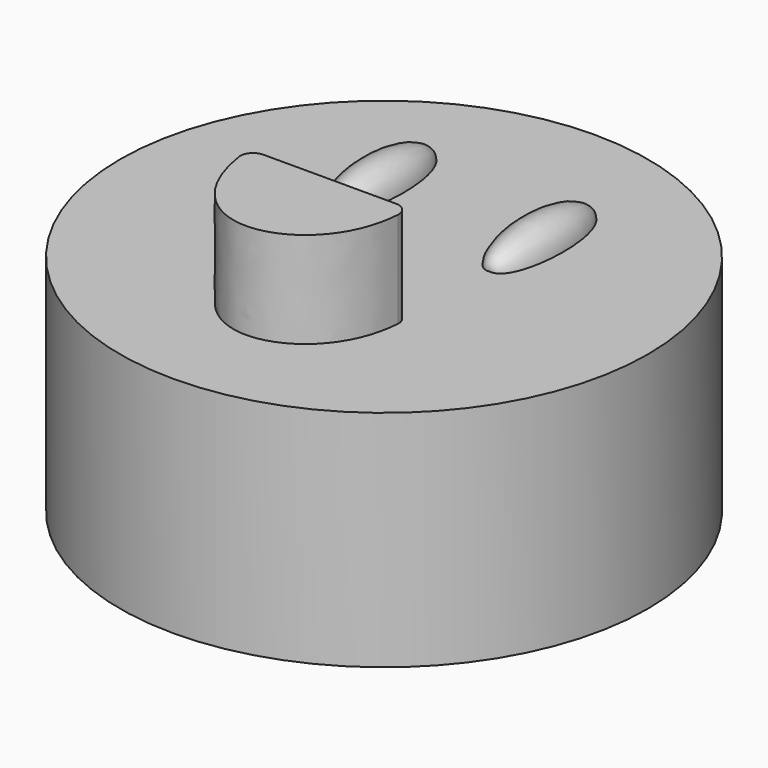
from build123d import *

# Parameters (mm, degrees)
F0_R     = 8.25
F1_DEPTH = 7
F5_DEPTH = 3


with BuildPart() as f1:
    # F0 (on Top) → F1 (new body)
    with BuildSketch(Plane.XY):
        Circle(F0_R)
    extrude(amount=F1_DEPTH)

    # F2 (on face) → F3 (revolve)
    with BuildSketch(Plane.XY.offset(7)):
        with BuildLine():
            Line((-2.5, 1), (-2.5, 5))
            add(Edge.make_bspline(
                [(-2.5, 1), (-3.43300635, 0.8503383724), (-3.585588187, 4.7030341811), (-2.5, 5)],
                knots=[0, 0, 0, 0, 4, 4, 4, 4], degree=3))
        make_face()
    revolve(axis=Axis((-2.5, 3, 7), (0, -1, 0)))

    # F2 (on face) → F4 (revolve)
    with BuildSketch(Plane.XY.offset(7)):
        with BuildLine():
            Line((2.5, 1), (2.5, 5))
            add(Edge.make_bspline(
                [(2.5, 1), (1.56699365, 0.8503383724), (1.414411813, 4.7030341811), (2.5, 5)],
                knots=[0, 0, 0, 0, 4, 4, 4, 4], degree=3))
        make_face()
    revolve(axis=Axis((2.5, 3, 7), (0, -1, 0)))

    # F2 (on face) → F5 (join)
    with BuildSketch(Plane.XY.offset(7)):
        with BuildLine():
            Line((2.0776409017, -2.1250108257), (-2.0717297527, -2.1250108257))
            ThreePointArc((-2.0717297527, -2.1250108257), (-2.374725272, -2.2638715616), (-2.4673498875, -2.5840422494))
            add(Edge.make_bspline(
                [(-2.4673498875, -2.5840422494), (-2.1958217419, -4.4037849366), (-0.0853140585, -6.3108429823), (2.3625802937, -4.2915575872), (2.4767824749, -2.5512025144)],
                knots=[0.0375043401, 0.0375043401, 0.0375043401, 0.0375043401, 0.50066272, 0.963428104, 0.963428104, 0.963428104, 0.963428104], degree=3))
            ThreePointArc((2.4767824749, -2.5512025144), (2.3695969562, -2.2515850364), (2.0776409017, -2.1250108257))
        make_face()
    extrude(amount=F5_DEPTH)


solid = f1.part
